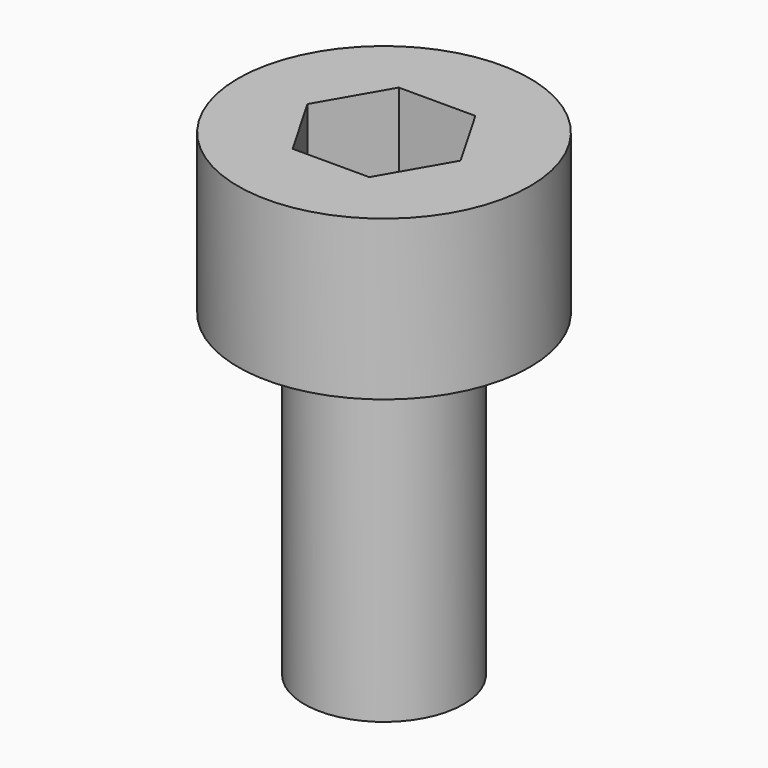
from build123d import *

# Parameters (mm, degrees)
SKETCH041_R     = 2.75
PAD020_DEPTH    = 3
SKETCH042_R     = 1.5
PAD021_DEPTH    = 6
POCKET020_DEPTH = 4


with BuildPart() as part:
    # Sketch041 → Pad020 (new body)
    with BuildSketch(Plane.XY):
        Circle(SKETCH041_R)
    extrude(amount=PAD020_DEPTH)

    # Sketch042 (on Face2 of Pad020) → Pad021 (join)
    with BuildSketch(Plane(origin=(0, 0, 0), x_dir=(1, 0, 0), z_dir=(0, 0, -1))):
        Circle(SKETCH042_R)
    extrude(amount=PAD021_DEPTH)

    # Sketch043 (on DatumPlane) → Pocket020 (cut)
    with BuildSketch(Plane.XY.offset(3)):
        Polygon((0.721688, -1.25), (1.443376, 0), (0.721688, 1.25), (-0.721688, 1.25), (-1.443376, 0), (-0.721688, -1.25), align=None)
    extrude(amount=-POCKET020_DEPTH, mode=Mode.SUBTRACT)


with BuildPart() as part_1:
    # Body011 placement: moved
    add(part.part.moved(Location((-40.02, -40.03, 10.89))))


solid = part_1.part
